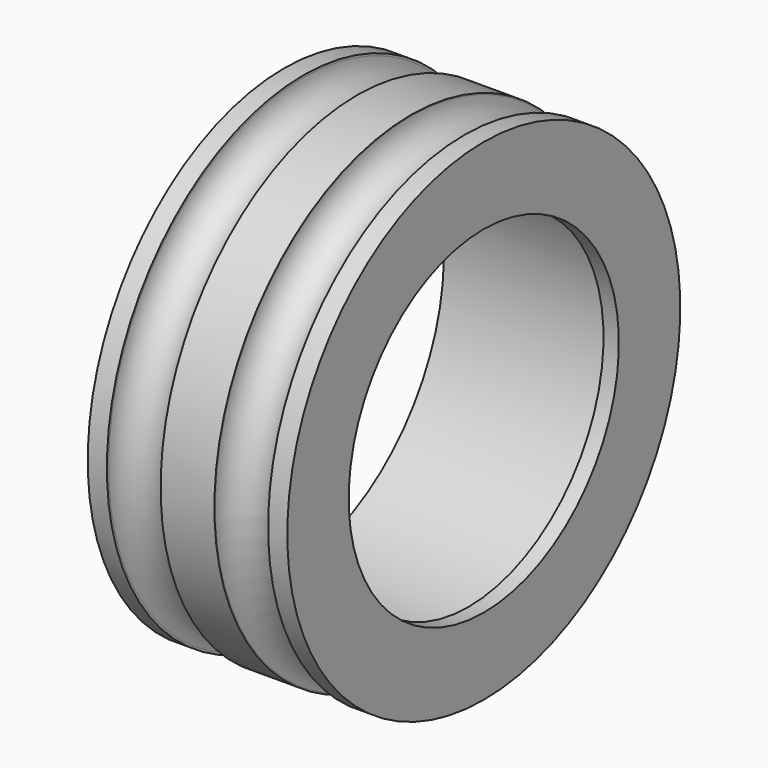
from build123d import *


with BuildPart() as f1:
    # F0 (on Front) → F1 (revolve)
    with BuildSketch(Plane.XZ):
        with BuildLine():
            Line((1.247333, 16), (0, 16))
            Line((0, 16), (0, 13))
            Line((0, 13), (12, 13))
            Line((12, 13), (12, 11))
            Line((12, 11), (13, 11))
            Line((13, 11), (13, 16))
            Line((13, 16), (12, 16))
            Line((12, 16), (11.749817, 16))
            Line((11.749817, 16), (11.749817, 15.925313))
            ThreePointArc((11.749817, 15.925313), (11.75, 15.9), (11.749817, 15.874687))
            ThreePointArc((11.749817, 15.874687), (9.979433, 14.150121), (8.250072, 15.91582))
            Line((8.250072, 15.91582), (8.250072, 16))
            Line((8.250072, 16), (4.75, 16))
            Line((4.75, 16), (4.75, 15.9))
            ThreePointArc((4.75, 15.9), (3.019522, 14.150109), (1.250436, 15.860959))
            Line((1.250436, 15.860959), (1.247333, 16))
        make_face()
    revolve(axis=Axis((8.760135, 0, 0), (1, 0, 0)))


solid = f1.part
